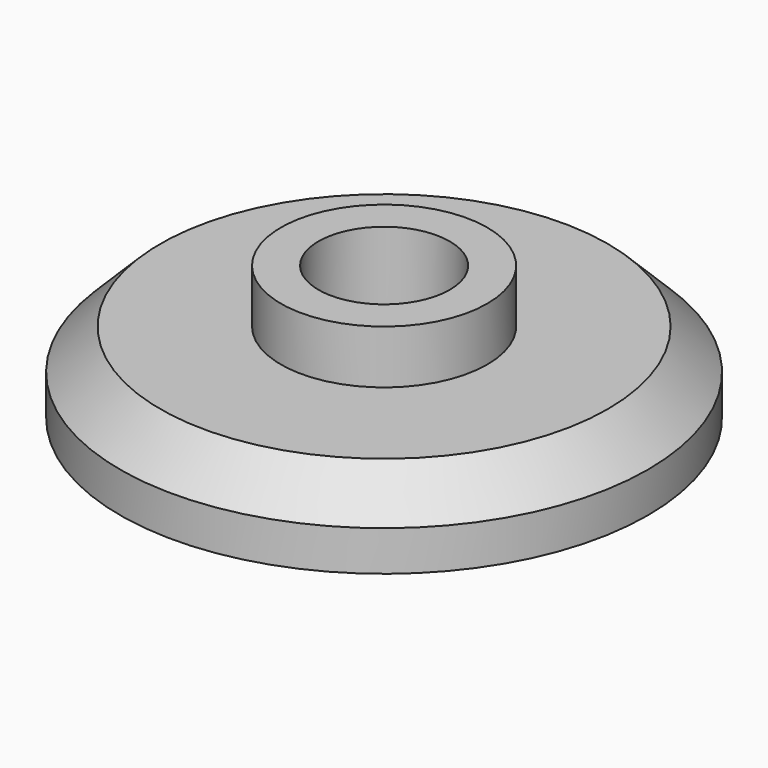
from build123d import *

# Parameters (mm, degrees)
F0_R     = 1.925
F1_DEPTH = 1
F0_R_2   = 4.925
F2_DEPTH = 1.5
F3_SIZE  = 0.75
F4_T     = -0.7


with BuildPart() as f1:
    # F0 (on Top) → F1 (new body)
    with BuildSketch(Plane.XY):
        Circle(F0_R)
    extrude(amount=F1_DEPTH)

    # F0 (on Top) → F2 (join)
    with BuildSketch(Plane.XY):
        Circle(F0_R_2)
        Circle(F0_R, mode=Mode.SUBTRACT)
        Circle(F0_R)
    extrude(amount=-F2_DEPTH)

    # F3
    f3_edges = [f1.edges().sort_by_distance(p)[0] for p in [
        (-4.925, 0, 0),
    ]]
    chamfer(f3_edges, length=F3_SIZE)

    # F4
    f4_openings = [f1.faces().sort_by_distance(p)[0] for p in [
        (0, 0, 1),
    ]]
    offset(amount=F4_T, openings=f4_openings, kind=Kind.INTERSECTION)


solid = f1.part
